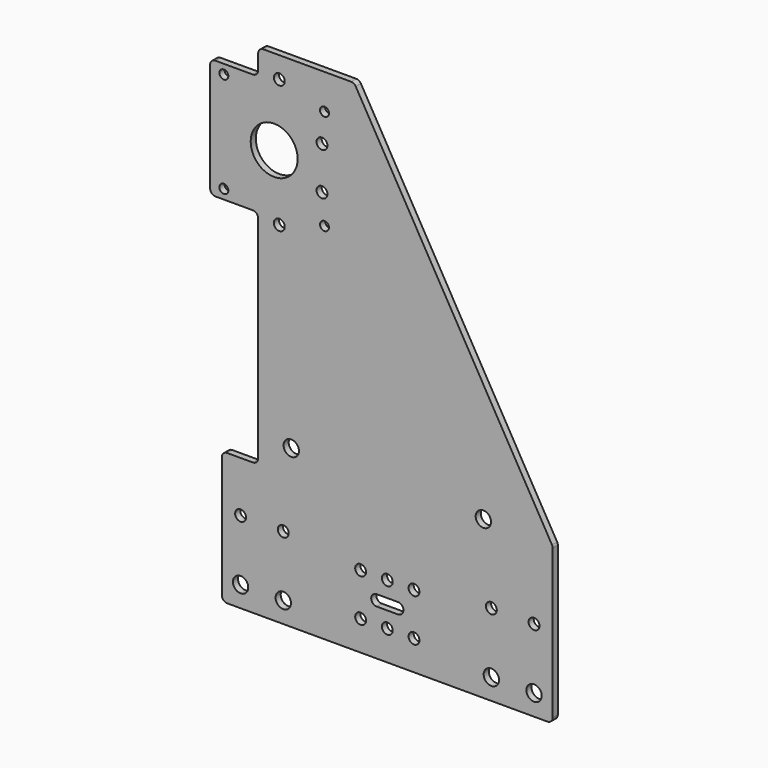
from build123d import *

# Parameters (mm, degrees)
F0_W     = 10
F0_H     = 5.1
F1_DEPTH = 3
F2_D     = 22
F3_D     = 4.2
F4_D     = 5.1
F5_D     = 7.2


with BuildPart() as f1:
    # F0 (on Front) → F1 (new body)
    with BuildSketch(Plane.XZ):
        with BuildLine():
            ThreePointArc((-58, 210), (-59.767766953, 209.267766953), (-60.5, 207.5))
            Line((-60.5, 207.5), (-60.5, 200.5))
            ThreePointArc((-60.5, 200.5), (-61.232233047, 198.732233047), (-63, 198))
            Line((-63, 198), (-80.5, 198))
            ThreePointArc((-80.5, 198), (-82.267766953, 197.267766953), (-83, 195.5))
            Line((-83, 195.5), (-83, 144.5))
            ThreePointArc((-83, 144.5), (-82.267766953, 142.732233047), (-80.5, 142))
            Line((-80.5, 142), (-63, 142))
            ThreePointArc((-63, 142), (-61.232233047, 141.267766953), (-60.5, 139.5))
            Line((-60.5, 139.5), (-60.5, 40.5))
            ThreePointArc((-60.5, 40.5), (-61.232233047, 38.732233047), (-63, 38))
            Line((-63, 38), (-75, 38))
            ThreePointArc((-75, 38), (-76.767766953, 37.267766953), (-77.5, 35.5))
            Line((-77.5, 35.5), (-77.5, -21.5))
            ThreePointArc((-77.5, -21.5), (-76.767766953, -23.267766953), (-75, -24))
            Line((-75, -24), (75, -24))
            ThreePointArc((75, -24), (76.767766953, -23.267766953), (77.5, -21.5))
            Line((77.5, -21.5), (77.5, 48.3298361723))
            ThreePointArc((77.5, 48.3298361723), (77.4147443195, 48.9771458907), (77.1647921028, 49.5803061447))
            Line((77.1647921028, 49.5803061447), (-14.7782217853, 208.7504699724))
            ThreePointArc((-14.7782217853, 208.7504699724), (-15.6932488963, 209.6651991746), (-16.943013888, 210))
            Line((-16.943013888, 210), (-58, 210))
        make_face()
        Rectangle(F0_W, F0_H, mode=Mode.SUBTRACT)
    extrude(amount=F1_DEPTH)

    # F2 (through all)
    with Locations(Plane(origin=(0, 0, 0), x_dir=(1, 0, 0), z_dir=(0, 1, 0))):
        with Locations((-53, -170)):
            Hole(F2_D / 2)

    # F3 (through all)
    with Locations(Plane(origin=(0, 0, 0), x_dir=(1, 0, 0), z_dir=(0, 1, 0))):
        with Locations((-76.57, -193.57), (-29.43, -193.57), (-29.43, -146.43), (-76.57, -146.43)):
            Hole(F3_D / 2)

    # F4 (through all)
    with Locations(Plane(origin=(0, 0, 0), x_dir=(1, 0, 0), z_dir=(0, 1, 0))):
        with Locations((-50.6, -200), (-30.6, -180), (-30.6, -160), (-50.6, -140), (-68.74, -14.25), (-48.74, -14.25), (48.74, -14.25), (68.74, -14.25), (12.5, -10), (0, -10), (-12.5, -10), (-12.5, 10), (0, 10), (12.5, 10), (5, 0), (-5, 0)):
            Hole(F4_D / 2)

    # F5 (through all)
    with Locations(Plane(origin=(0, 0, 0), x_dir=(1, 0, 0), z_dir=(0, 1, 0))):
        with Locations((-68.74, 14.25), (-48.74, 14.25), (48.74, 14.25), (68.74, 14.25), (-45, -49.75), (45, -49.75)):
            Hole(F5_D / 2)


solid = f1.part
